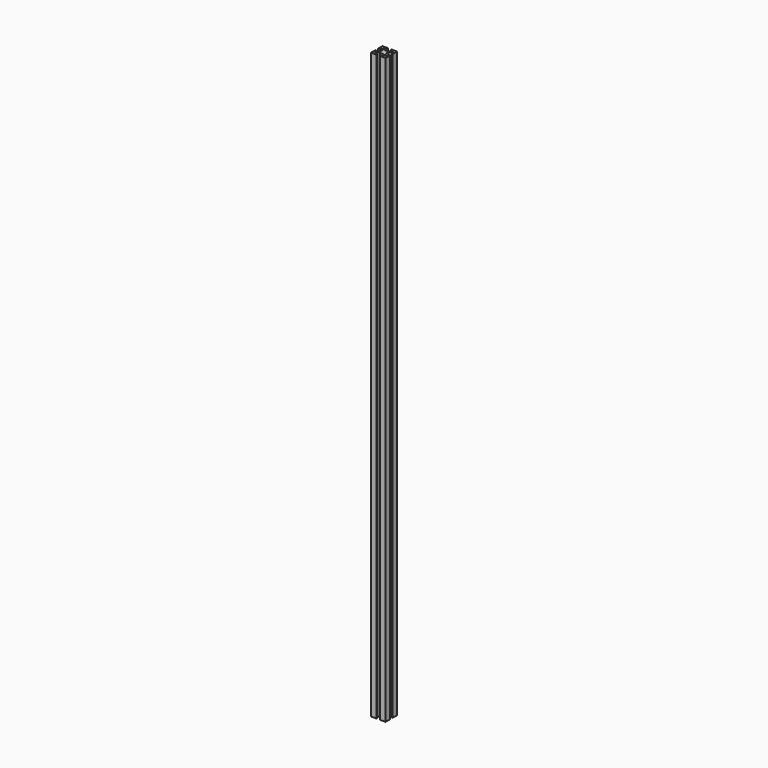
from build123d import *

# Parameters (mm, degrees)
PAD_DEPTH    = 1000
SKETCH001_R  = 2
POCKET_DEPTH = 5.251


with BuildPart() as change_me_for_height:
    # Sketch → Pad (new body)
    with BuildSketch(Plane.XY):
        Polygon((-12.5, 3), (-12.5, 12.25), (-3.25, 12.25), (-3.25, 10.25), (-7.25, 10.25), (-7.25, 8.25), (-3.25, 5), (3.25, 5), (7.25, 8.25), (7.25, 10.25), (3.25, 10.25), (3.25, 12.25), (12.5, 12.25), (12.5, 3), (10.5, 3), (10.5, 7), (8.5, 7), (4.964466, 3.25), (4.964466, 0), (-4.964466, 0), (-4.964466, 3.25), (-8.5, 7), (-10.5, 7), (-10.5, 3), align=None)
    pad = extrude(amount=PAD_DEPTH)


with BuildPart() as mirrored:
    # Mirrored base: copy of Change_me_for_height
    add(change_me_for_height.part)

    # Mirrored: Pad across Sketch H_Axis
    add(pad.mirror(Plane.ZX))


with BuildPart() as pocket:
    # Fusion base: copy of Change_me_for_height
    add(change_me_for_height.part)

    # Fusion: union Mirrored
    add(mirrored.part)

    # Sketch001 → Pocket (cut, through all)
    with BuildSketch(Plane.XZ.offset(-7)):
        Circle(SKETCH001_R)
    extrude(amount=-POCKET_DEPTH, mode=Mode.SUBTRACT)


solid = pocket.part
